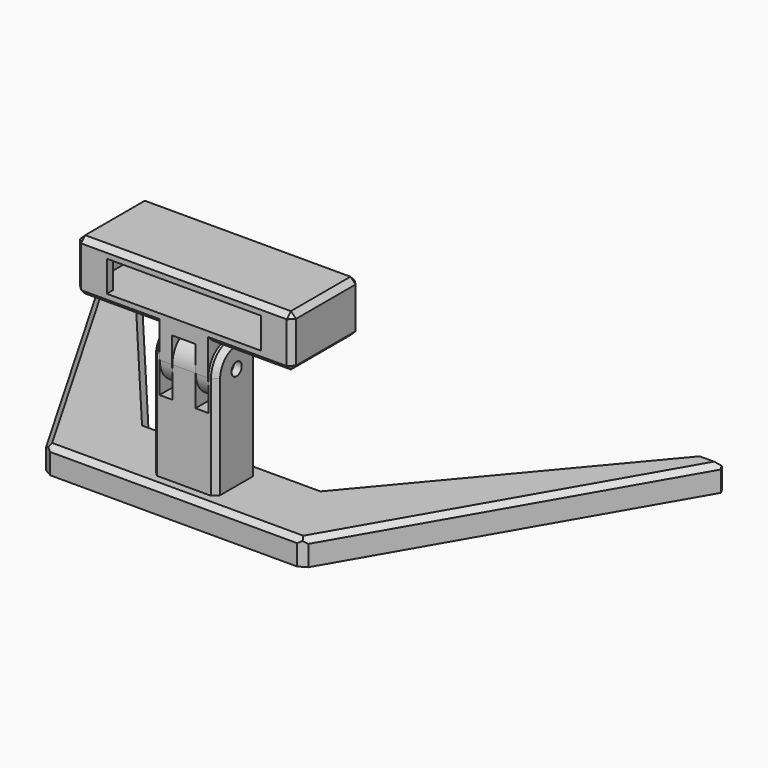
from build123d import *

# Parameters (mm, degrees)
PAD_DEPTH               = 10
CHAMFER_SIZE            = 2
SKETCH001_W             = 25
SKETCH001_H             = 20
PAD001_DEPTH            = 50
SKETCH002_W             = 5
SKETCH002_H             = 20
POCKET_DEPTH            = 22
FILLET_R                = 9.99
SKETCH003_R             = 2.5
POCKET001_DEPTH         = 25
SKETCH009_R             = 4.5
SKETCH010_R             = 2.5
CHAMFER001_SIZE         = 2
SKETCH004_W             = 84
SKETCH004_H             = 20
SKETCH004_W_2           = 76
SKETCH004_H_2           = 12
PAD002_DEPTH            = 33
SKETCH005_W             = 12
SKETCH005_H             = 20
PAD003_DEPTH            = 3
SKETCH006_W             = 18.8
SKETCH006_H             = 20
PAD004_DEPTH            = 22
SKETCH007_W             = 9.2
SKETCH007_H             = 20
POCKET002_DEPTH         = 20
FILLET001_R             = 9.9999
SKETCH008_R             = 2.5
POCKET003_DEPTH         = 20
CHAMFER002_SIZE         = 2
BODY001_PLACEMENT_ANGLE = 270


with BuildPart() as base:
    # Sketch → Pad (new body)
    with BuildSketch(Plane.XY):
        Polygon((-50, 0), (0, 0), (50, 0), (119.282032, 120), (109.282032, 120), (33.763065, 30), (-33.763065, 30), (-109.282032, 120), (-119.282032, 120), align=None)
    extrude(amount=PAD_DEPTH)

    # Chamfer
    chamfer_edges = [base.edges().sort_by_distance(p)[0] for p in [
        (84.641016, 60, 10),
        (114.282032, 120, 10),
        (71.522549, 75, 10),
        (0, 30, 10),
        (-25, 0, 10),
        (25, 0, 10),
        (-84.641016, 60, 10),
        (-71.522549, 75, 10),
        (-114.282032, 120, 10),
    ]]
    chamfer(chamfer_edges, length=CHAMFER_SIZE)

    # Sketch001 (on Face8 of Chamfer) → Pad001 (join)
    with BuildSketch(Plane.XY.offset(10)):
        with Locations((0, 15)):
            Rectangle(SKETCH001_W, SKETCH001_H)
    extrude(amount=PAD001_DEPTH)

    # Sketch002 (on Face25 of Pad001) → Pocket (cut)
    with BuildSketch(Plane.XY.offset(60)):
        with Locations((-7, 15)):
            Rectangle(SKETCH002_W, SKETCH002_H)
        with Locations((7, 15)):
            Rectangle(SKETCH002_W, SKETCH002_H)
    extrude(amount=-POCKET_DEPTH, mode=Mode.SUBTRACT)

    # Fillet
    fillet_edges = [base.edges().sort_by_distance(p)[0] for p in [
        (-11, 5, 60),
        (0, 5, 60),
        (11, 5, 60),
        (-11, 25, 60),
        (0, 25, 60),
        (11, 25, 60),
    ]]
    fillet(fillet_edges, radius=FILLET_R)

    # Sketch003 (on Face9 of Fillet) → Pocket001 (cut)
    with BuildSketch(Plane.YZ.offset(12.5)):
        with Locations((15, 50)):
            Circle(SKETCH003_R)
    extrude(amount=-POCKET001_DEPTH, mode=Mode.SUBTRACT)

    # Sketch009 (on Face1 of Pocket001) → SubtractiveLoft section 0
    with BuildSketch(Plane(origin=(-12.5, 0, 0), x_dir=(0, -1, 0), z_dir=(-1, 0, 0))):
        with Locations((-15, 50)):
            Circle(SKETCH009_R)
    # Sketch010 (on Face9 of Pocket001) → SubtractiveLoft section 1
    with BuildSketch(Plane.YZ.offset(-9.5)):
        with Locations((15, 50)):
            Circle(SKETCH010_R)
    loft(mode=Mode.SUBTRACT)

    # Chamfer001
    chamfer001_edges = [base.edges().sort_by_distance(p)[0] for p in [
        (-12.5, 5, 30.005),
        (12.5, 5, 30.005),
        (12.5, 25, 30.005),
        (-12.5, 25, 30.005),
        (-119.282032, 120, 4),
        (-109.282032, 120, 4),
        (109.282032, 120, 4),
        (119.282032, 120, 4),
        (-50, 0, 4),
        (50, 0, 4),
    ]]
    chamfer(chamfer001_edges, length=CHAMFER001_SIZE)


with BuildPart() as mount:
    # Sketch004 → Pad002 (new body)
    with BuildSketch(Plane.XY):
        with Locations((0, 10)):
            Rectangle(SKETCH004_W, SKETCH004_H)
        with Locations((0, 10)):
            Rectangle(SKETCH004_W_2, SKETCH004_H_2, mode=Mode.SUBTRACT)
    extrude(amount=PAD002_DEPTH)

    # Sketch005 (on Face9 of Pad002) → Pad003 (join)
    with BuildSketch(Plane(origin=(0, 0, 0), x_dir=(1, 0, 0), z_dir=(0, 0, -1))):
        with Locations((-36, -10)):
            Rectangle(SKETCH005_W, SKETCH005_H)
        with Locations((36, -10)):
            Rectangle(SKETCH005_W, SKETCH005_H)
    extrude(amount=-PAD003_DEPTH)

    # Sketch006 (on Face3 of Pad003) → Pad004 (join)
    with BuildSketch(Plane(origin=(0, 20, 0), x_dir=(-1, 0, 0), z_dir=(0, 1, 0))):
        with Locations((0, 10)):
            Rectangle(SKETCH006_W, SKETCH006_H)
    extrude(amount=PAD004_DEPTH)

    # Sketch007 (on Face22 of Pad004) → Pocket002 (cut)
    with BuildSketch(Plane(origin=(0, 42, 0), x_dir=(-1, 0, 0), z_dir=(0, 1, 0))):
        with Locations((0, 10)):
            Rectangle(SKETCH007_W, SKETCH007_H)
    extrude(amount=-POCKET002_DEPTH, mode=Mode.SUBTRACT)

    # Fillet001
    fillet001_edges = [mount.edges().sort_by_distance(p)[0] for p in [
        (-7, 42, 0),
        (7, 42, 0),
        (-7, 42, 20),
        (7, 42, 20),
    ]]
    fillet(fillet001_edges, radius=FILLET001_R)

    # Sketch008 (on Face9 of Fillet001) → Pocket003 (cut)
    with BuildSketch(Plane.YZ.offset(9.4)):
        with Locations((32, 10)):
            Circle(SKETCH008_R)
    extrude(amount=-POCKET003_DEPTH, mode=Mode.SUBTRACT)

    # Chamfer002
    chamfer002_edges = [mount.edges().sort_by_distance(p)[0] for p in [
        (42, 0, 18),
        (42, 20, 18),
        (42, 20, 1.5),
        (42, 0, 1.5),
        (0, 0, 33),
        (42, 10, 33),
        (42, 10, 0),
        (0, 20, 33),
        (-42, 10, 33),
        (-42, 0, 18),
        (-42, 20, 18),
        (-42, 20, 1.5),
        (-42, 0, 1.5),
        (-42, 10, 0),
        (-36, 0, 0),
        (0, 0, 0),
        (36, 0, 0),
        (36, 20, 0),
        (19.7, 20, 0),
        (-19.7, 20, 0),
        (-36, 20, 0),
    ]]
    chamfer(chamfer002_edges, length=CHAMFER002_SIZE)


with BuildPart() as mount_1:
    # Body001 placement: moved
    add(mount.part.moved(Location((0, 5, 82))).rotate(Axis((0, 5, 82), (1, 0, 0)), BODY001_PLACEMENT_ANGLE))


solid = Compound([base.part, mount_1.part])
